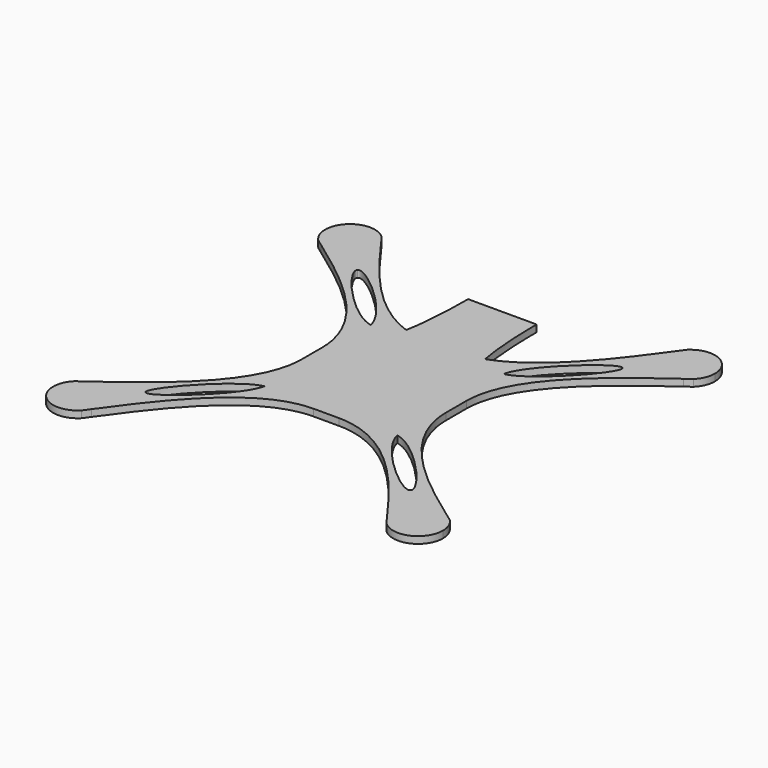
from build123d import *

# Parameters (mm, degrees)
F1_DEPTH = 2


with BuildPart() as f1:
    # F0 (on Top) → F1 (new body)
    with BuildSketch(Plane.XY):
        with BuildLine():
            Line((-54.6239988467, 44.3709505195), (-44.3709505195, 54.6239988467))
            ThreePointArc((-44.3709505195, 54.6239988467), (-54.6239988467, 54.6239988467), (-54.6239988467, 44.3709505195))
        make_face()
        with BuildLine():
            add(Edge.make_bspline(
                [(-44.3709505195, 54.6239988467), (-43.9252914894, 54.0043111509), (-43.4688364543, 53.3678190196), (-43.0017926599, 52.7175080764)],
                knots=[0, 0, 0, 0, 2.5015216892, 2.5015216892, 2.5015216892, 2.5015216892], degree=3))
            Line((-44.3709505195, 54.6239988467), (-54.6239988467, 44.3709505195))
            add(Edge.make_bspline(
                [(-54.6239988467, 44.3709505195), (-54.0043111509, 43.9252914894), (-53.3678190196, 43.4688364543), (-52.7175080764, 43.0017926599)],
                knots=[0, 0, 0, 0, 2.5015216892, 2.5015216892, 2.5015216892, 2.5015216892], degree=3))
            ThreePointArc((-52.7175080764, 43.0017926599), (-45.6753510653, 43.3368033681), (-42.2474746831, 49.4974746831))
            ThreePointArc((-42.2474746831, 49.4974746831), (-42.438572691, 51.1510776179), (-43.0017926599, 52.7175080764))
        make_face()
        with BuildLine():
            add(Edge.make_bspline(
                [(-43.0017926599, 52.7175080764), (-35.156058263, 41.793121548), (-24.322210487, 26.9691113568), (-11.4827054753, 22.3989517485)],
                knots=[2.5015216892, 2.5015216892, 2.5015216892, 2.5015216892, 44.5238651926, 44.5238651926, 44.5238651926, 44.5238651926], degree=3))
            ThreePointArc((-43.0017926599, 52.7175080764), (-42.438572691, 51.1510776179), (-42.2474746831, 49.4974746831))
            ThreePointArc((-42.2474746831, 49.4974746831), (-45.6753510653, 43.3368033681), (-52.7175080764, 43.0017926599))
            add(Edge.make_bspline(
                [(-52.7175080764, 43.0017926599), (-39.6490365505, 33.6162078218), (-21, 19.9544767567), (-21, 3.6984848098)],
                knots=[2.5015216892, 2.5015216892, 2.5015216892, 2.5015216892, 52.7714199671, 52.7714199671, 52.7714199671, 52.7714199671], degree=3))
            Line((-21, 3.6984848098), (-21, 8.6984848098))
            Line((-21, 8.6984848098), (-13.1504285381, 16.5480562717))
            add(Edge.make_bspline(
                [(-11.4827054763, 22.3989517466), (-11.9073939206, 20.1841898293), (-12.4520123835, 18.1588898334), (-13.1504285381, 16.5480562717)],
                knots=[20.823803079, 20.823803079, 20.823803079, 20.823803079, 26.7043470991, 26.7043470991, 26.7043470991, 26.7043470991], degree=3))
        make_face()
        with BuildLine():
            add(Edge.make_bspline(
                [(-19.3470806403, 19.3470806403), (-20.6042841596, 26.1135079486), (-36.7534501997, 40.4009415356), (-38.5771958677, 38.5771958677)],
                knots=[0, 0, 0, 0, 27.1954897606, 27.1954897606, 27.1954897606, 27.1954897606], degree=3))
            add(Edge.make_bspline(
                [(-19.3470806403, 19.3470806403), (-26.1135079486, 20.6042841596), (-40.4009415356, 36.7534501997), (-38.5771958677, 38.5771958677)],
                knots=[0, 0, 0, 0, 27.1954897606, 27.1954897606, 27.1954897606, 27.1954897606], degree=3))
        make_face(mode=Mode.SUBTRACT)
        with BuildLine():
            add(Edge.make_bspline(
                [(-9.9788261577, 43.0633931983), (-9.9788261577, 40.4602801443), (-9.9788261577, 30.2417237545), (-11.4827054763, 22.3989517466)],
                knots=[0, 0, 0, 0, 20.823803079, 20.823803079, 20.823803079, 20.823803079], degree=3))
            add(Edge.make_bspline(
                [(-11.4827054753, 22.3989517485), (-8.9627479471, 21.5019850743), (-6.3655318616, 21), (-3.6984848098, 21)],
                knots=[44.5238651926, 44.5238651926, 44.5238651926, 44.5238651926, 52.7714199671, 52.7714199671, 52.7714199671, 52.7714199671], degree=3))
            Line((-3.6984848098, 21), (3.6984848098, 21))
            add(Edge.make_bspline(
                [(11.4827054753, 22.3989517485), (8.9627479471, 21.5019850743), (6.3655318616, 21), (3.6984848098, 21)],
                knots=[44.5238651926, 44.5238651926, 44.5238651926, 44.5238651926, 52.7714199671, 52.7714199671, 52.7714199671, 52.7714199671], degree=3))
            add(Edge.make_bspline(
                [(9.9788261577, 43.0633931983), (9.9788261577, 40.4602801443), (9.9788261577, 30.2417237545), (11.4827054763, 22.3989517466)],
                knots=[0, 0, 0, 0, 20.823803079, 20.823803079, 20.823803079, 20.823803079], degree=3))
            Line((9.9788261577, 43.0633931983), (-9.9788261577, 43.0633931983))
        make_face()
        with BuildLine():
            add(Edge.make_bspline(
                [(-11.4827054753, 22.3989517485), (-8.9627479471, 21.5019850743), (-6.3655318616, 21), (-3.6984848098, 21)],
                knots=[44.5238651926, 44.5238651926, 44.5238651926, 44.5238651926, 52.7714199671, 52.7714199671, 52.7714199671, 52.7714199671], degree=3))
            add(Edge.make_bspline(
                [(-11.4827054763, 22.3989517466), (-11.9073939206, 20.1841898293), (-12.4520123835, 18.1588898334), (-13.1504285381, 16.5480562717)],
                knots=[20.823803079, 20.823803079, 20.823803079, 20.823803079, 26.7043470991, 26.7043470991, 26.7043470991, 26.7043470991], degree=3))
            Line((-13.1504285381, 16.5480562717), (-8.6984848098, 21))
            Line((-8.6984848098, 21), (-3.6984848098, 21))
        make_face()
        Polygon((-21, 8.6984848098), (-21, 3.6984848098), (-21, -3.6984848098), (-21, -8.6984848098), (-8.6984848098, -21), (-3.6984848098, -21), (3.6984848098, -21), (8.6984848098, -21), (21, -8.6984848098), (21, -3.6984848098), (21, 3.6984848098), (21, 8.6984848098), (13.1504285381, 16.5480562717), (8.6984848098, 21), (3.6984848098, 21), (-3.6984848098, 21), (-8.6984848098, 21), (-13.1504285381, 16.5480562717), align=None)
        with BuildLine():
            add(Edge.make_bspline(
                [(11.4827054753, 22.3989517485), (8.9627479471, 21.5019850743), (6.3655318616, 21), (3.6984848098, 21)],
                knots=[44.5238651926, 44.5238651926, 44.5238651926, 44.5238651926, 52.7714199671, 52.7714199671, 52.7714199671, 52.7714199671], degree=3))
            Line((3.6984848098, 21), (8.6984848098, 21))
            Line((8.6984848098, 21), (13.1504285381, 16.5480562717))
            add(Edge.make_bspline(
                [(11.4827054763, 22.3989517466), (11.9073939206, 20.1841898293), (12.4520123835, 18.1588898334), (13.1504285381, 16.5480562717)],
                knots=[20.823803079, 20.823803079, 20.823803079, 20.823803079, 26.7043470991, 26.7043470991, 26.7043470991, 26.7043470991], degree=3))
        make_face()
        with BuildLine():
            add(Edge.make_bspline(
                [(43.0017926599, 52.7175080764), (35.156058263, 41.793121548), (24.322210487, 26.9691113568), (11.4827054753, 22.3989517485)],
                knots=[2.5015216892, 2.5015216892, 2.5015216892, 2.5015216892, 44.5238651926, 44.5238651926, 44.5238651926, 44.5238651926], degree=3))
            add(Edge.make_bspline(
                [(11.4827054763, 22.3989517466), (11.9073939206, 20.1841898293), (12.4520123835, 18.1588898334), (13.1504285381, 16.5480562717)],
                knots=[20.823803079, 20.823803079, 20.823803079, 20.823803079, 26.7043470991, 26.7043470991, 26.7043470991, 26.7043470991], degree=3))
            Line((13.1504285381, 16.5480562717), (21, 8.6984848098))
            Line((21, 8.6984848098), (21, 3.6984848098))
            add(Edge.make_bspline(
                [(52.7175080764, 43.0017926599), (39.6490365505, 33.6162078218), (21, 19.9544767567), (21, 3.6984848098)],
                knots=[2.5015216892, 2.5015216892, 2.5015216892, 2.5015216892, 52.7714199671, 52.7714199671, 52.7714199671, 52.7714199671], degree=3))
            ThreePointArc((52.7175080764, 43.0017926599), (44.3709505195, 44.3709505195), (43.0017926599, 52.7175080764))
        make_face()
        with BuildLine():
            add(Edge.make_bspline(
                [(19.3470806403, 19.3470806403), (26.1135079486, 20.6042841596), (40.4009415356, 36.7534501997), (38.5771958677, 38.5771958677)],
                knots=[0, 0, 0, 0, 27.1954897606, 27.1954897606, 27.1954897606, 27.1954897606], degree=3))
            add(Edge.make_bspline(
                [(19.3470806403, 19.3470806403), (20.6042841596, 26.1135079486), (36.7534501997, 40.4009415356), (38.5771958677, 38.5771958677)],
                knots=[0, 0, 0, 0, 27.1954897606, 27.1954897606, 27.1954897606, 27.1954897606], degree=3))
        make_face(mode=Mode.SUBTRACT)
        with BuildLine():
            add(Edge.make_bspline(
                [(44.3709505195, 54.6239988467), (43.9252914894, 54.0043111509), (43.4688364543, 53.3678190196), (43.0017926599, 52.7175080764)],
                knots=[0, 0, 0, 0, 2.5015216892, 2.5015216892, 2.5015216892, 2.5015216892], degree=3))
            ThreePointArc((43.0017926599, 52.7175080764), (44.3709505195, 44.3709505195), (52.7175080764, 43.0017926599))
            add(Edge.make_bspline(
                [(54.6239988467, 44.3709505195), (54.0043111509, 43.9252914894), (53.3678190196, 43.4688364543), (52.7175080764, 43.0017926599)],
                knots=[0, 0, 0, 0, 2.5015216892, 2.5015216892, 2.5015216892, 2.5015216892], degree=3))
            ThreePointArc((54.6239988467, 44.3709505195), (56.1956012938, 46.7230197984), (56.7474746831, 49.4974746831))
            ThreePointArc((56.7474746831, 49.4974746831), (52.2719295677, 56.1956012938), (44.3709505195, 54.6239988467))
        make_face()
        with BuildLine():
            Line((8.6984848098, -21), (3.6984848098, -21))
            add(Edge.make_bspline(
                [(43.0017926599, -52.7175080764), (33.6162078218, -39.6490365505), (19.9544767567, -21), (3.6984848098, -21)],
                knots=[2.5015216892, 2.5015216892, 2.5015216892, 2.5015216892, 52.7714199671, 52.7714199671, 52.7714199671, 52.7714199671], degree=3))
            ThreePointArc((43.0017926599, -52.7175080764), (44.3709505195, -44.3709505195), (52.7175080764, -43.0017926599))
            add(Edge.make_bspline(
                [(52.7175080764, -43.0017926599), (39.6490365505, -33.6162078218), (21, -19.9544767567), (21, -3.6984848098)],
                knots=[2.5015216892, 2.5015216892, 2.5015216892, 2.5015216892, 52.7714199671, 52.7714199671, 52.7714199671, 52.7714199671], degree=3))
            Line((21, -3.6984848098), (21, -8.6984848098))
            Line((21, -8.6984848098), (8.6984848098, -21))
        make_face()
        with BuildLine():
            add(Edge.make_bspline(
                [(19.3470806403, -19.3470806403), (20.6042841596, -26.1135079486), (36.7534501997, -40.4009415356), (38.5771958677, -38.5771958677)],
                knots=[0, 0, 0, 0, 27.1954897606, 27.1954897606, 27.1954897606, 27.1954897606], degree=3))
            add(Edge.make_bspline(
                [(19.3470806403, -19.3470806403), (26.1135079486, -20.6042841596), (40.4009415356, -36.7534501997), (38.5771958677, -38.5771958677)],
                knots=[0, 0, 0, 0, 27.1954897606, 27.1954897606, 27.1954897606, 27.1954897606], degree=3))
        make_face(mode=Mode.SUBTRACT)
        with BuildLine():
            Line((-21, -8.6984848098), (-21, -3.6984848098))
            add(Edge.make_bspline(
                [(-52.7175080764, -43.0017926599), (-39.6490365505, -33.6162078218), (-21, -19.9544767567), (-21, -3.6984848098)],
                knots=[2.5015216892, 2.5015216892, 2.5015216892, 2.5015216892, 52.7714199671, 52.7714199671, 52.7714199671, 52.7714199671], degree=3))
            ThreePointArc((-52.7175080764, -43.0017926599), (-45.6753510653, -43.3368033681), (-42.2474746831, -49.4974746831))
            ThreePointArc((-42.2474746831, -49.4974746831), (-42.438572691, -51.1510776179), (-43.0017926599, -52.7175080764))
            add(Edge.make_bspline(
                [(-43.0017926599, -52.7175080764), (-33.6162078218, -39.6490365505), (-19.9544767567, -21), (-3.6984848098, -21)],
                knots=[2.5015216892, 2.5015216892, 2.5015216892, 2.5015216892, 52.7714199671, 52.7714199671, 52.7714199671, 52.7714199671], degree=3))
            Line((-3.6984848098, -21), (-8.6984848098, -21))
            Line((-8.6984848098, -21), (-21, -8.6984848098))
        make_face()
        with BuildLine():
            add(Edge.make_bspline(
                [(-19.3470806403, -19.3470806403), (-26.1135079486, -20.6042841596), (-40.4009415356, -36.7534501997), (-38.5771958677, -38.5771958677)],
                knots=[0, 0, 0, 0, 27.1954897606, 27.1954897606, 27.1954897606, 27.1954897606], degree=3))
            add(Edge.make_bspline(
                [(-19.3470806403, -19.3470806403), (-20.6042841596, -26.1135079486), (-36.7534501997, -40.4009415356), (-38.5771958677, -38.5771958677)],
                knots=[0, 0, 0, 0, 27.1954897606, 27.1954897606, 27.1954897606, 27.1954897606], degree=3))
        make_face(mode=Mode.SUBTRACT)
        with BuildLine():
            ThreePointArc((-42.2474746831, -49.4974746831), (-45.6753510653, -43.3368033681), (-52.7175080764, -43.0017926599))
            add(Edge.make_bspline(
                [(-54.6239988467, -44.3709505195), (-54.0043111509, -43.9252914894), (-53.3678190196, -43.4688364543), (-52.7175080764, -43.0017926599)],
                knots=[0, 0, 0, 0, 2.5015216892, 2.5015216892, 2.5015216892, 2.5015216892], degree=3))
            ThreePointArc((-54.6239988467, -44.3709505195), (-54.6239988467, -54.6239988467), (-44.3709505195, -54.6239988467))
            add(Edge.make_bspline(
                [(-44.3709505195, -54.6239988467), (-43.9252914894, -54.0043111509), (-43.4688364543, -53.3678190196), (-43.0017926599, -52.7175080764)],
                knots=[0, 0, 0, 0, 2.5015216892, 2.5015216892, 2.5015216892, 2.5015216892], degree=3))
            ThreePointArc((-43.0017926599, -52.7175080764), (-42.438572691, -51.1510776179), (-42.2474746831, -49.4974746831))
        make_face()
        with BuildLine():
            ThreePointArc((52.7175080764, -43.0017926599), (44.3709505195, -44.3709505195), (43.0017926599, -52.7175080764))
            add(Edge.make_bspline(
                [(44.3709505195, -54.6239988467), (43.9252914894, -54.0043111509), (43.4688364543, -53.3678190196), (43.0017926599, -52.7175080764)],
                knots=[0, 0, 0, 0, 2.5015216892, 2.5015216892, 2.5015216892, 2.5015216892], degree=3))
            ThreePointArc((44.3709505195, -54.6239988467), (52.2719295677, -56.1956012938), (56.7474746831, -49.4974746831))
            ThreePointArc((56.7474746831, -49.4974746831), (56.1956012938, -46.7230197984), (54.6239988467, -44.3709505195))
            add(Edge.make_bspline(
                [(54.6239988467, -44.3709505195), (54.0043111509, -43.9252914894), (53.3678190196, -43.4688364543), (52.7175080764, -43.0017926599)],
                knots=[0, 0, 0, 0, 2.5015216892, 2.5015216892, 2.5015216892, 2.5015216892], degree=3))
        make_face()
    extrude(amount=F1_DEPTH)


solid = f1.part
